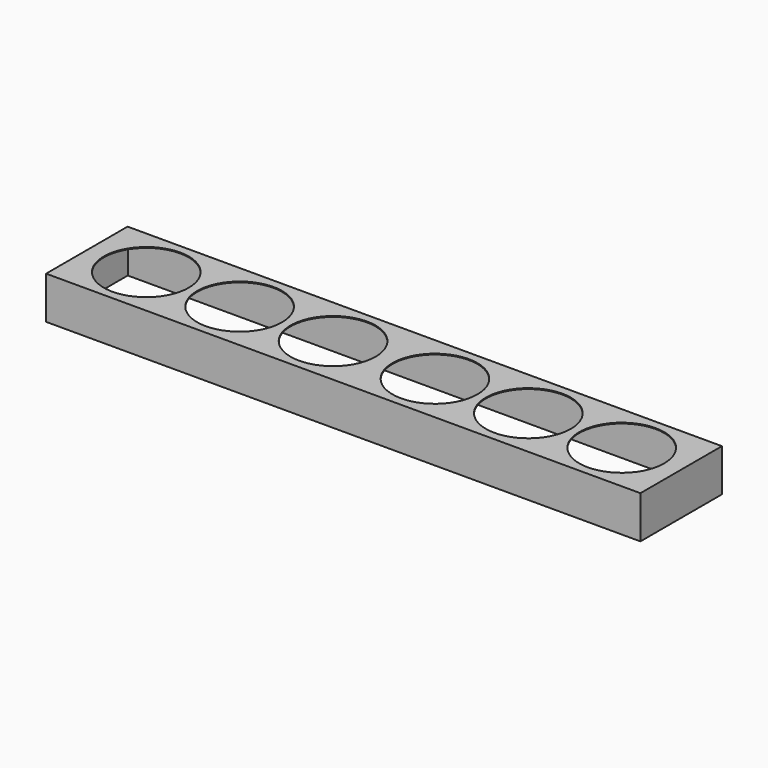
from build123d import *

# Parameters (mm, degrees)
F0_W     = 2133.6
F0_H     = 365.76
F1_DEPTH = 152.4
F2_T     = -3.048
F3_R     = 152.4
F4_DEPTH = 152.401


with BuildPart() as f1:
    # F0 (on Top) → F1 (new body)
    with BuildSketch(Plane.XY):
        Rectangle(F0_W, F0_H)
    extrude(amount=F1_DEPTH)

    # F2
    f2_openings = [f1.faces().sort_by_distance(p)[0] for p in [
        (0, 0, 0),
    ]]
    offset(amount=F2_T, openings=f2_openings)

    # F3 (on face) → F4 (cut, through all)
    with BuildSketch(Plane.XY.offset(152.4)):
        with Locations((182.88, 0)):
            Circle(F3_R)
        with Locations((518.16, 0)):
            Circle(F3_R)
        with Locations((853.44, 0)):
            Circle(F3_R)
        with Locations((-182.88, 0)):
            Circle(F3_R)
        with Locations((-518.16, 0)):
            Circle(F3_R)
        with Locations((-853.44, 0)):
            Circle(F3_R)
    extrude(amount=-F4_DEPTH, mode=Mode.SUBTRACT)


solid = f1.part
